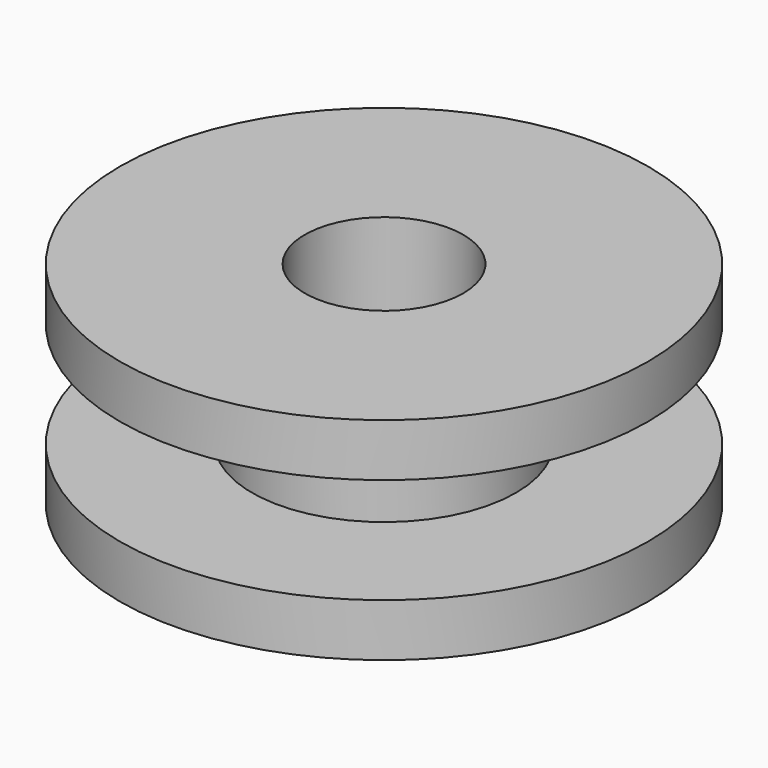
from build123d import *

# Parameters (mm, degrees)
F0_R     = 2.5
F0_R_2   = 1.5
F1_DEPTH = 4
F0_R_3   = 5
F2_DEPTH = 1
F3_R     = 5
F3_R_2   = 2.5
F3_R_3   = 1.5
F4_DEPTH = 1


with BuildPart() as f1:
    # F0 (on Top) → F1 (new body)
    with BuildSketch(Plane.XY):
        Circle(F0_R)
        Circle(F0_R_2, mode=Mode.SUBTRACT)
    extrude(amount=F1_DEPTH)

    # F0 (on Top) → F2 (join)
    with BuildSketch(Plane.XY):
        Circle(F0_R_3)
        Circle(F0_R, mode=Mode.SUBTRACT)
    extrude(amount=F2_DEPTH)

    # F3 (on face) → F4 (join)
    with BuildSketch(Plane.XY.offset(4)):
        Circle(F3_R)
        Circle(F3_R_2, mode=Mode.SUBTRACT)
        Circle(F3_R_2)
        Circle(F3_R_3, mode=Mode.SUBTRACT)
    extrude(amount=-F4_DEPTH)


solid = f1.part
